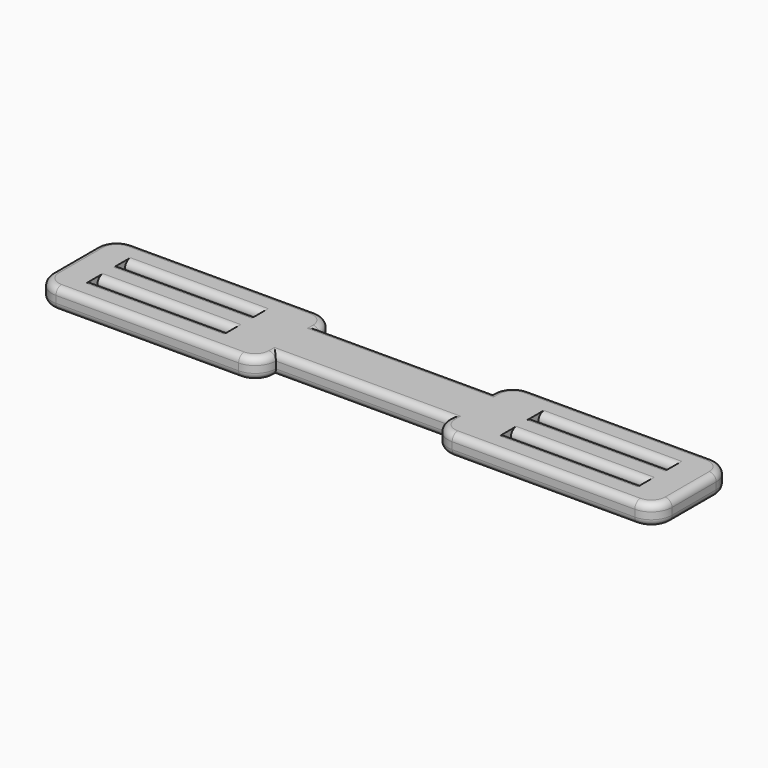
from build123d import *

# Parameters (mm, degrees)
BOX003_W     = 40
BOX003_H     = 2
BOX003_DEPTH = 10
BOX004_W     = 40
BOX004_H     = 2
BOX004_DEPTH = 10
BOX002_W     = 40
BOX002_H     = 2
BOX002_DEPTH = 10
BOX005_W     = 50
BOX005_H     = 6
BOX005_DEPTH = 10
BOX006_W     = 50
BOX006_H     = 6
BOX006_DEPTH = 10
BOX001_W     = 40
BOX001_H     = 2
BOX001_DEPTH = 10
BOX_W        = 180
BOX_H        = 28
BOX_DEPTH    = 6
FILLET_R     = 5.99
FILLET001_R  = 2


with BuildPart() as cube003:
    # Box003 → Box003 (new body)
    with BuildSketch(Plane(origin=(20, -6, 0), x_dir=(1, 0, 0), z_dir=(0, 0, 1))):
        with Locations((20, 1)):
            Rectangle(BOX003_W, BOX003_H)
    extrude(amount=BOX003_DEPTH)


with BuildPart() as cube004:
    # Box004 → Box004 (new body)
    with BuildSketch(Plane(origin=(20, 4, 0), x_dir=(1, 0, 0), z_dir=(0, 0, 1))):
        with Locations((20, 1)):
            Rectangle(BOX004_W, BOX004_H)
    extrude(amount=BOX004_DEPTH)


with BuildPart() as cube002:
    # Box002 → Box002 (new body)
    with BuildSketch(Plane(origin=(-100, 4, 0), x_dir=(1, 0, 0), z_dir=(0, 0, 1))):
        with Locations((20, 1)):
            Rectangle(BOX002_W, BOX002_H)
    extrude(amount=BOX002_DEPTH)


with BuildPart() as cube005:
    # Box005 → Box005 (new body)
    with BuildSketch(Plane(origin=(-45, -14, 0), x_dir=(1, 0, 0), z_dir=(0, 0, 1))):
        with Locations((25, 3)):
            Rectangle(BOX005_W, BOX005_H)
    extrude(amount=BOX005_DEPTH)


with BuildPart() as cube006:
    # Box006 → Box006 (new body)
    with BuildSketch(Plane(origin=(-45, 8, 0), x_dir=(1, 0, 0), z_dir=(0, 0, 1))):
        with Locations((25, 3)):
            Rectangle(BOX006_W, BOX006_H)
    extrude(amount=BOX006_DEPTH)


with BuildPart() as holes:
    # Box001 → Box001 (new body)
    with BuildSketch(Plane(origin=(-100, -6, 0), x_dir=(1, 0, 0), z_dir=(0, 0, 1))):
        with Locations((20, 1)):
            Rectangle(BOX001_W, BOX001_H)
    extrude(amount=BOX001_DEPTH)

    # Fusion: union Cube003, Cube004, Cube002, Cube005, Cube006
    add(cube003.part)
    add(cube004.part)
    add(cube002.part)
    add(cube005.part)
    add(cube006.part)


with BuildPart() as fillet001:
    # Box → Box (new body)
    with BuildSketch(Plane(origin=(-110, -14, 0), x_dir=(1, 0, 0), z_dir=(0, 0, 1))):
        with Locations((90, 14)):
            Rectangle(BOX_W, BOX_H)
    extrude(amount=BOX_DEPTH)

    # Cut: cut Holes
    add(holes.part, mode=Mode.SUBTRACT)

    # Fillet
    fillet_edges = [fillet001.edges().sort_by_distance(p)[0] for p in [
        (-110, -14, 3),
        (-110, 14, 3),
        (-45, -14, 3),
        (-45, 14, 3),
        (5, 14, 3),
        (70, 14, 3),
        (70, -14, 3),
        (5, -14, 3),
    ]]
    fillet(fillet_edges, radius=FILLET_R)

    # Fillet001
    fillet001_edges = [fillet001.edges().sort_by_distance(p)[0] for p in [
        (-110, 0, 6),
        (-110, 0, 0),
        (-77.5, 14, 6),
        (-108.24557, 12.24557, 6),
        (-46.75443, 12.24557, 6),
        (-108.24557, -12.24557, 6),
        (-20, 8, 6),
        (-77.5, -14, 6),
        (-46.75443, -12.24557, 6),
        (6.75443, 12.24557, 6),
        (37.5, 14, 6),
        (-20, -8, 6),
        (68.24557, 12.24557, 6),
        (70, 0, 6),
        (6.75443, -12.24557, 6),
        (68.24557, -12.24557, 6),
        (37.5, -14, 6),
        (-80, -6, 6),
        (-80, -4, 6),
        (-80, 4, 6),
        (-80, 6, 6),
        (40, 4, 6),
        (40, 6, 6),
        (40, -6, 6),
        (40, -4, 6),
        (-108.24557, -12.24557, 0),
        (-108.24557, 12.24557, 0),
        (-77.5, 14, 0),
        (-46.75443, 12.24557, 0),
        (-20, 8, 0),
        (-77.5, -14, 0),
        (-46.75443, -12.24557, 0),
        (6.75443, 12.24557, 0),
        (37.5, 14, 0),
        (-20, -8, 0),
        (68.24557, 12.24557, 0),
        (70, 0, 0),
        (6.75443, -12.24557, 0),
        (68.24557, -12.24557, 0),
        (37.5, -14, 0),
        (-80, -6, 0),
        (-80, -4, 0),
        (-80, 4, 0),
        (-80, 6, 0),
        (40, 4, 0),
        (40, 6, 0),
        (40, -6, 0),
        (40, -4, 0),
    ]]
    fillet(fillet001_edges, radius=FILLET001_R)


solid = fillet001.part
